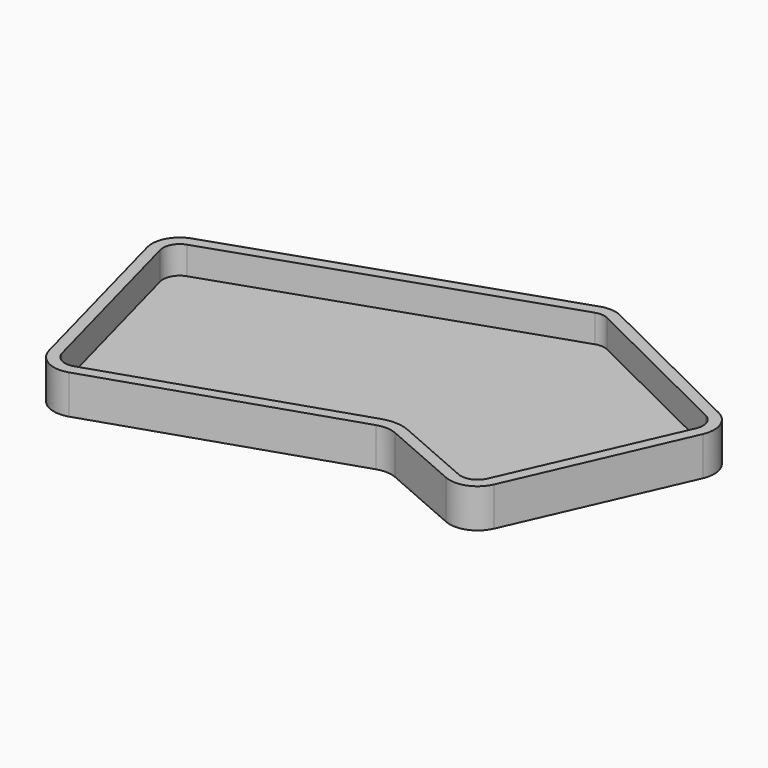
from build123d import *

# Parameters (mm, degrees)
F1_DEPTH = 20
F2_DEPTH = 50
F3_T     = -20


with BuildPart() as f1:
    # F0 (on Top) → F1 (new body)
    with BuildSketch(Plane.XY):
        with BuildLine():
            Line((126.4149565512, 318.7475000366), (-450.1034598535, 122.5814987763))
            ThreePointArc((-450.1034598535, 122.5814987763), (-478.0910883888, 98.8207080739), (-482.3054199281, 62.3498712928))
            Line((-482.3054199281, 62.3498712928), (-393.9558391633, -268.5866574495))
            ThreePointArc((-393.9558391633, -268.5866574495), (-369.4207710673, -299.6767597656), (-329.9698834283, -303.1683916176))
            Line((-329.9698834283, -303.1683916176), (106.3450430495, -159.0930914556))
            ThreePointArc((106.3450430495, -159.0930914556), (124.3346881302, -156.625037143), (142.0194350117, -160.7443028487))
            Line((142.0194350117, -160.7443028487), (282.7517397768, -222.1523142062))
            ThreePointArc((282.7517397768, -222.1523142062), (320.9333231451, -222.9008478399), (348.5065336168, -196.4790448091))
            Line((348.5065336168, -196.4790448091), (481.7955905074, 106.1445162961))
            ThreePointArc((481.7955905074, 106.1445162961), (483.0336988414, 143.3672853444), (458.1969646809, 171.1198362923))
            Line((458.1969646809, 171.1198362923), (164.6807282631, 316.2339391714))
            ThreePointArc((164.6807282631, 316.2339391714), (145.7983966372, 321.3050895289), (126.4149565512, 318.7475000366))
        make_face()
    extrude(amount=F1_DEPTH)

    # F2 (add): a face of the model
    f2_faces = [f1.faces().sort_by_distance(p)[0] for p in [
        (-7.672903893, 13.4350398808, 20),
    ]]
    extrude(f2_faces, amount=F2_DEPTH)

    # F3
    f3_openings = [f1.faces().sort_by_distance(p)[0] for p in [
        (-7.672904, 13.43504, 70),
    ]]
    offset(amount=F3_T, openings=f3_openings)


solid = f1.part
